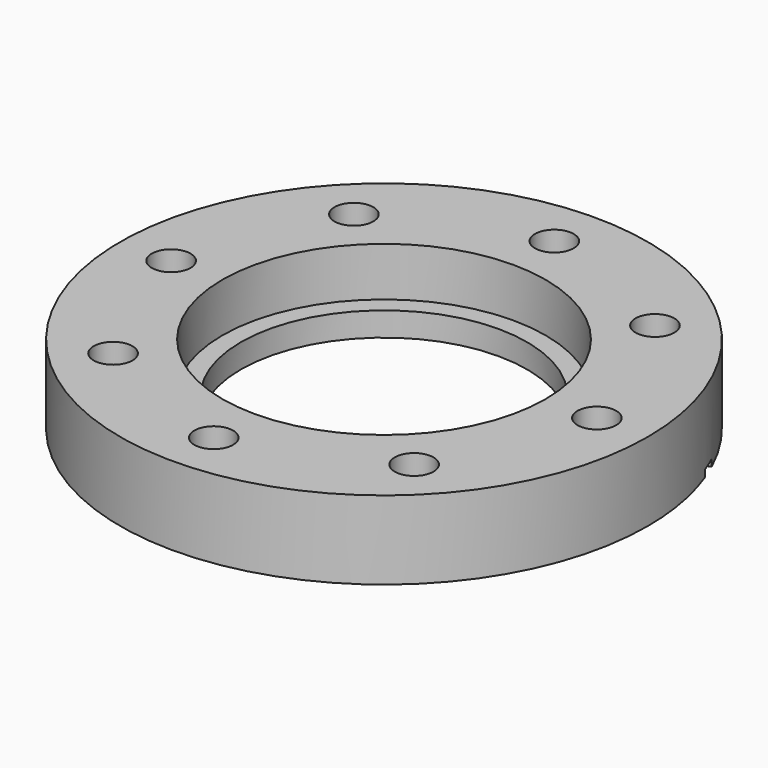
from build123d import *

# Parameters (mm, degrees)
CYLINDER025_R             = 41.25
CYLINDER025_DEPTH         = 1.5
BOX002_W                  = 16.9
BOX002_H                  = 4
BOX002_DEPTH              = 1.5
BOX003_W                  = 16.9
BOX003_H                  = 4
BOX003_DEPTH              = 1.5
FUSION008_PLACEMENT_ANGLE = 22.5
CYLINDER018_R             = 35
CYLINDER018_DEPTH         = 10.6
CYLINDER019_R             = 31
CYLINDER019_DEPTH         = 17
CYLINDER023_R             = 4.2
CYLINDER023_DEPTH         = 17
ARRAY004_COUNT            = 8
CYLINDER022_R             = 38.6
CYLINDER022_DEPTH         = 0.22
CYLINDER021_R             = 41.25
CYLINDER021_DEPTH         = 1.2
CYLINDER020_R             = 57.15
CYLINDER020_DEPTH         = 17


with BuildPart() as cylinder025:
    # Cylinder025 → Cylinder025 (new body)
    with BuildSketch(Plane.XY):
        Circle(CYLINDER025_R)
    extrude(amount=CYLINDER025_DEPTH)


with BuildPart() as cube002:
    # Box002 → Box002 (new body)
    with BuildSketch(Plane(origin=(40.75, -2, 0), x_dir=(1, 0, 0), z_dir=(0, 0, 1))):
        with Locations((8.45, 2)):
            Rectangle(BOX002_W, BOX002_H)
    extrude(amount=BOX002_DEPTH)


with BuildPart() as obj1:
    # Box003 → Box003 (new body)
    with BuildSketch(Plane(origin=(-57.65, -2, 0), x_dir=(1, 0, 0), z_dir=(0, 0, 1))):
        with Locations((8.45, 2)):
            Rectangle(BOX003_W, BOX003_H)
    extrude(amount=BOX003_DEPTH)

    # Fusion008: union Cube002
    add(cube002.part)


with BuildPart() as obj1_1:
    # Fusion008 placement: moved
    add(obj1.part.rotate(Axis((0, 0, 0), (0, 0, 1)), FUSION008_PLACEMENT_ANGLE))

    # Cut021: cut Cylinder025
    add(cylinder025.part, mode=Mode.SUBTRACT)


with BuildPart() as cylinder018:
    # Cylinder018 → Cylinder018 (new body)
    with BuildSketch(Plane.XY.offset(6.4)):
        Circle(CYLINDER018_R)
    extrude(amount=CYLINDER018_DEPTH)


with BuildPart() as fusion006:
    # Cylinder019 → Cylinder019 (new body)
    with BuildSketch(Plane.XY):
        Circle(CYLINDER019_R)
    extrude(amount=CYLINDER019_DEPTH)

    # Fusion006: union Cylinder018
    add(cylinder018.part)


with BuildPart() as boltholearray004:
    # Cylinder023 → Cylinder023 (new body)
    with BuildSketch(Plane(origin=(46.1, 0, 0), x_dir=(1, 0, 0), z_dir=(0, 0, 1))):
        Circle(CYLINDER023_R)
    extrude(amount=CYLINDER023_DEPTH)

    # Array004: BoltHoleArray004 ×8 about axis
    array004_axis = Axis((0, 0, 0), (0, 0, 1))


with BuildPart() as boltholearray004_1:
    add(boltholearray004.part)
    for i in range(1, ARRAY004_COUNT):
        add(boltholearray004.part.rotate(array004_axis, i * 360 / ARRAY004_COUNT))


with BuildPart() as cylinder022:
    # Cylinder022 → Cylinder022 (new body)
    with BuildSketch(Plane.XY):
        Circle(CYLINDER022_R)
    extrude(amount=CYLINDER022_DEPTH)


with BuildPart() as knifeedge004:
    # Cone004 → Cone004 (revolve)
    with BuildSketch(Plane.XZ):
        Polygon((0, 0), (38.6, 0), (41.25, 0.22), (0, 0.22), align=None)
    revolve(axis=Axis((0, 0, 0), (0, 0, 1)))

    # Cut016: cut Cylinder022
    add(cylinder022.part, mode=Mode.SUBTRACT)


with BuildPart() as knifeedge004_1:
    # Cut016 placement: moved
    add(knifeedge004.part.moved(Location((0, 0, 0.98))))


with BuildPart() as sealrecess004:
    # Cylinder021 → Cylinder021 (new body)
    with BuildSketch(Plane.XY):
        Circle(CYLINDER021_R)
    extrude(amount=CYLINDER021_DEPTH)


with BuildPart() as obj2:
    # Cylinder020 → Cylinder020 (new body)
    with BuildSketch(Plane.XY):
        Circle(CYLINDER020_R)
    extrude(amount=CYLINDER020_DEPTH)

    # Cut015: cut SealRecess004
    add(sealrecess004.part, mode=Mode.SUBTRACT)

    # Fusion005: union KnifeEdge004
    add(knifeedge004_1.part)

    # Cut017: cut BoltHoleArray004
    add(boltholearray004_1.part, mode=Mode.SUBTRACT)

    # Cut018: cut Fusion006
    add(fusion006.part, mode=Mode.SUBTRACT)

    # Cut024: cut obj1
    add(obj1_1.part, mode=Mode.SUBTRACT)


solid = obj2.part
